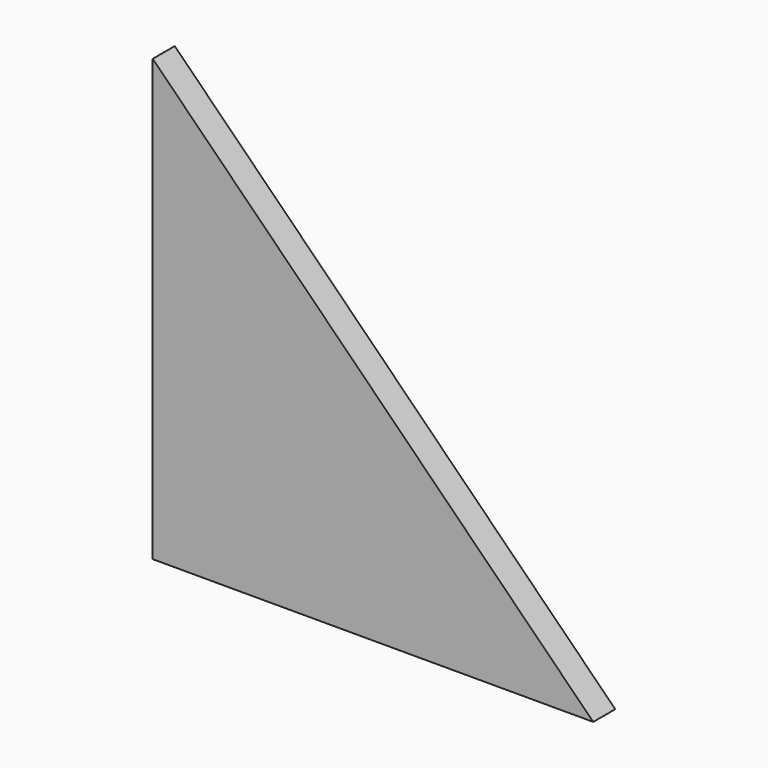
from build123d import *

# Parameters (mm, degrees)
F2_DEPTH = 6.35


with BuildPart() as f2:
    # F1 (on face) → F2 (new body)
    with BuildSketch(Plane.XZ):
        Polygon((101.6, 0), (0, 101.6), (0, 0), align=None)
    extrude(amount=F2_DEPTH)


solid = f2.part
